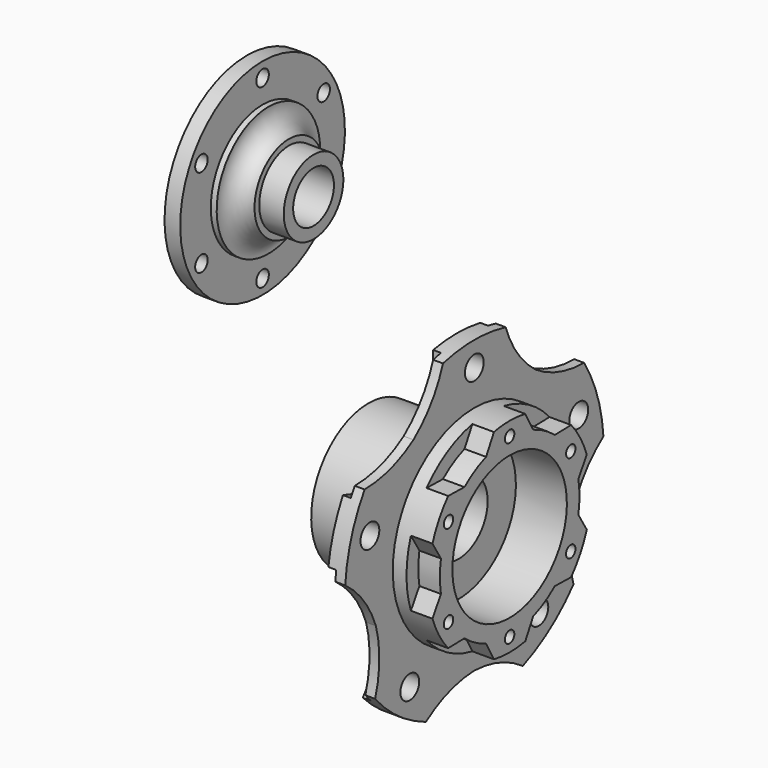
from build123d import *

# Parameters (mm, degrees)
F2_R      = 4
F3_DEPTH  = 8
F4_W      = 1
F4_H      = 18
F4_W_2    = 45
F6_R      = 6
F7_DEPTH  = 9
F9_DEPTH  = 9
F10_R     = 3
F11_DEPTH = 15
F13_DEPTH = 11
F15_DEPTH = 4


with BuildPart() as f1:
    # F0 (on Front) → F1 (revolve)
    with BuildSketch(Plane.XZ):
        with BuildLine():
            Line((0, 13), (0, 19))
            Line((0, 19), (-12.5, 19))
            Line((-12.5, 19), (-12.5, 22))
            ThreePointArc((-12.5, 22), (-20.2852233625, 25.0800140631), (-23, 33))
            Line((-23, 33), (-26, 33))
            Line((-26, 33), (-26, 52.5))
            Line((-26, 52.5), (-34, 52.5))
            Line((-34, 52.5), (-34, 37))
            Line((-34, 37), (-32, 37))
            Line((-32, 37), (-32, 34))
            Line((-32, 34), (-32, 13))
            Line((-32, 13), (0, 13))
        make_face()
        Polygon((-38, 34), (-32, 34), (-32, 37), (-34, 37), (-38, 37), align=None)
    revolve(axis=Axis((-19, 0, 0), (-1, 0, 0)))

    # F2 (on face) → F3 (cut)
    with BuildSketch(Plane(origin=(-34, 0, 0), x_dir=(0, -1, 0), z_dir=(-1, 0, 0))):
        with Locations((0, 45)):
            Circle(F2_R)
        with Locations((-38.9711431703, 22.5)):
            Circle(F2_R)
        with Locations((-38.9711431703, -22.5)):
            Circle(F2_R)
        with Locations((0, -45)):
            Circle(F2_R)
        with Locations((38.9711431703, -22.5)):
            Circle(F2_R)
        with Locations((38.9711431703, 22.5)):
            Circle(F2_R)
    extrude(amount=-F3_DEPTH, mode=Mode.SUBTRACT)


with BuildPart() as f5:
    # F4 (on Front) → F5 (revolve)
    with BuildSketch(Plane.XZ):
        Polygon((100, -83.5), (100, -68), (82, -68), (82, -37.5), (73, -37.5), (73, -83.5), (74, -83.5), align=None)
        with Locations((73.5, -92.5)):
            Rectangle(F4_W, F4_H)
        with Locations((50.5, -92.5)):
            Rectangle(F4_W_2, F4_H)
        with Locations((73.5, -92.5)):
            Rectangle(F4_W, F4_H)
    revolve(axis=Axis((50, 0, -120), (1, 0, 0)))

    # F6 (on face) → F7 (cut)
    with BuildSketch(Plane.YZ.offset(82)):
        with Locations((0, -50)):
            Circle(F6_R)
        with Locations((66.5739561407, -98.3688103938)):
            Circle(F6_R)
        with Locations((41.1449676605, -176.6311896062)):
            Circle(F6_R)
        with Locations((-41.1449676605, -176.6311896062)):
            Circle(F6_R)
        with Locations((-66.5739561407, -98.3688103938)):
            Circle(F6_R)
    extrude(amount=-F7_DEPTH, mode=Mode.SUBTRACT)

    # F8 (on face) → F9 (cut)
    with BuildSketch(Plane.YZ.offset(82)):
        with BuildLine():
            ThreePointArc((-20, -39.9609470321), (-48.4922833141, -53.2560979641), (-69.9413229957, -76.2454420933))
            ThreePointArc((-69.9413229957, -76.2454420933), (-53.6504199543, -73.7422009481), (-38.7938266513, -66.6048783713))
            ThreePointArc((-38.7938266513, -66.6048783713), (-27.4148896965, -54.6809724711), (-20, -39.9609470321))
        make_face()
        with BuildLine():
            ThreePointArc((69.9413229957, -76.2454420933), (48.4922833141, -53.2560979641), (20, -39.9609470321))
            ThreePointArc((20, -39.9609470321), (27.4148896965, -54.6809724711), (38.7938266513, -66.6048783713))
            ThreePointArc((38.7938266513, -66.6048783713), (53.6504199543, -73.7422009481), (69.9413229957, -76.2454420933))
        make_face()
        with BuildLine():
            ThreePointArc((82.3020027707, -114.2877027451), (70.5937535846, -125.8884199269), (62.7697300755, -140.3951216287))
            ThreePointArc((62.7697300755, -140.3951216287), (60.572672739, -156.7301354701), (63.2261148295, -172.9972490189))
            ThreePointArc((63.2261148295, -172.9972490189), (77.5319433312, -148.1965913416), (82.5, -120))
            ThreePointArc((82.5, -120), (82.4504858342, -117.1421361636), (82.3020027707, -114.2877027451))
        make_face()
        with BuildLine():
            ThreePointArc((0, -186), (-16.2144494122, -188.9582711838), (-30.8654350545, -196.5086591106))
            ThreePointArc((-30.8654350545, -196.5086591106), (0, -202.5), (30.8654350545, -196.5086591106))
            ThreePointArc((30.8654350545, -196.5086591106), (16.2144494122, -188.9582711838), (0, -186))
        make_face()
        with BuildLine():
            ThreePointArc((-62.7697300755, -140.3951216287), (-70.5937535846, -125.8884199269), (-82.3020027707, -114.2877027451))
            ThreePointArc((-82.3020027707, -114.2877027451), (-78.4621625944, -145.4939020359), (-63.2261148295, -172.9972490189))
            ThreePointArc((-63.2261148295, -172.9972490189), (-60.572672739, -156.7301354701), (-62.7697300755, -140.3951216287))
        make_face()
    extrude(amount=-F9_DEPTH, mode=Mode.SUBTRACT)

    # F10 (on face) → F11 (cut)
    with BuildSketch(Plane.YZ.offset(100)):
        with Locations((0, -75)):
            Circle(F10_R)
        with Locations((-38.9711431703, -97.5)):
            Circle(F10_R)
        with Locations((-38.9711431703, -142.5)):
            Circle(F10_R)
        with Locations((0, -165)):
            Circle(F10_R)
        with Locations((38.9711431703, -142.5)):
            Circle(F10_R)
        with Locations((38.9711431703, -97.5)):
            Circle(F10_R)
    extrude(amount=-F11_DEPTH, mode=Mode.SUBTRACT)

    # F12 (on face) → F13 (cut)
    with BuildSketch(Plane.YZ.offset(100)):
        with BuildLine():
            ThreePointArc((52, -120), (51.2933889433, -111.4566838574), (49.192759588, -103.1455523935))
            Line((49.192759588, -103.1455523935), (43.7827438323, -112.0425291383))
            ThreePointArc((43.7827438323, -112.0425291383), (44.3203232194, -116.0051345791), (44.5, -120))
            ThreePointArc((44.5, -120), (44.3203232194, -123.9948654209), (43.7827438323, -127.9574708617))
            Line((43.7827438323, -127.9574708617), (49.192759588, -136.8544476065))
            ThreePointArc((49.192759588, -136.8544476065), (51.2933889433, -128.5433161426), (52, -120))
        make_face()
        with BuildLine():
            ThreePointArc((-28.7827438323, -86.0617670247), (-22.25, -81.4618695316), (-15, -78.104296163))
            Line((-15, -78.104296163), (-10, -68.9705967113))
            ThreePointArc((-10, -68.9705967113), (-26, -74.9666790032), (-39.192759588, -85.8250443178))
            Line((-39.192759588, -85.8250443178), (-28.7827438323, -86.0617670247))
        make_face()
        with BuildLine():
            Line((10, -68.9705967113), (15, -78.104296163))
            ThreePointArc((15, -78.104296163), (22.25, -81.4618695316), (28.7827438323, -86.0617670247))
            Line((28.7827438323, -86.0617670247), (39.192759588, -85.8250443178))
            ThreePointArc((39.192759588, -85.8250443178), (26, -74.9666790032), (10, -68.9705967113))
        make_face()
        with BuildLine():
            Line((-43.7827438323, -112.0425291383), (-49.192759588, -103.1455523935))
            ThreePointArc((-49.192759588, -103.1455523935), (-52, -120), (-49.192759588, -136.8544476065))
            Line((-49.192759588, -136.8544476065), (-43.7827438323, -127.9574708617))
            ThreePointArc((-43.7827438323, -127.9574708617), (-44.5, -120), (-43.7827438323, -112.0425291383))
        make_face()
        with BuildLine():
            Line((-28.7827438323, -153.9382329753), (-39.192759588, -154.1749556822))
            ThreePointArc((-39.192759588, -154.1749556822), (-26, -165.0333209968), (-10, -171.0294032887))
            Line((-10, -171.0294032887), (-15, -161.895703837))
            ThreePointArc((-15, -161.895703837), (-22.25, -158.5381304684), (-28.7827438323, -153.9382329753))
        make_face()
        with BuildLine():
            ThreePointArc((10, -171.0294032887), (26, -165.0333209968), (39.192759588, -154.1749556822))
            Line((39.192759588, -154.1749556822), (28.7827438323, -153.9382329753))
            ThreePointArc((28.7827438323, -153.9382329753), (22.25, -158.5381304684), (15, -161.895703837))
            Line((15, -161.895703837), (10, -171.0294032887))
        make_face()
    extrude(amount=-F13_DEPTH, mode=Mode.SUBTRACT)

    # F14 (on face) → F15 (cut)
    with BuildSketch(Plane(origin=(73, 0, 0), x_dir=(0, -1, 0), z_dir=(-1, 0, 0))):
        with BuildLine():
            ThreePointArc((-28.5701039602, -94.9450771363), (-22.3358395871, -89.2573542138), (-15, -85.0858194998))
            Line((-15, -85.0858194998), (-15, -38.8750963021))
            ThreePointArc((-15, -38.8750963021), (-17.5084199159, -39.379250611), (-20, -39.9609470321))
            ThreePointArc((-20, -39.9609470321), (-27.4148896965, -54.6809724711), (-38.7938266513, -66.6048783713))
            ThreePointArc((-38.7938266513, -66.6048783713), (-53.6504199543, -73.7422009481), (-69.9413229957, -76.2454420933))
            ThreePointArc((-69.9413229957, -76.2454420933), (-71.2644897564, -78.4353214885), (-72.5191133801, -80.6651783459))
            Line((-72.5191133801, -80.6651783459), (-28.5701039602, -94.9450771363))
        make_face()
        with BuildLine():
            ThreePointArc((-32.6572953095, -139.4293865849), (-36.1401476192, -131.7426457862), (-37.8406137914, -123.4767726252))
            Line((-37.8406137914, -123.4767726252), (-81.7896232114, -109.1968738347))
            ThreePointArc((-81.7896232114, -109.1968738347), (-82.0852883537, -111.7383151906), (-82.3020027707, -114.2877027451))
            ThreePointArc((-82.3020027707, -114.2877027451), (-70.5937535846, -125.8884199269), (-62.7697300755, -140.3951216287))
            ThreePointArc((-62.7697300755, -140.3951216287), (-60.572672739, -156.7301354701), (-63.2261148295, -172.9972490189))
            ThreePointArc((-63.2261148295, -172.9972490189), (-61.5522967763, -174.9323653374), (-59.8192769029, -176.8146469743))
            Line((-59.8192769029, -176.8146469743), (-32.6572953095, -139.4293865849))
        make_face()
        with BuildLine():
            ThreePointArc((8.3867854783, -157.0629441537), (0, -158), (-8.3867854783, -157.0629441537))
            Line((-8.3867854783, -157.0629441537), (-35.5487670717, -194.4482045431))
            ThreePointArc((-35.5487670717, -194.4482045431), (-33.223078263, -195.5147473725), (-30.8654350545, -196.5086591106))
            ThreePointArc((-30.8654350545, -196.5086591106), (-16.2144494122, -188.9582711838), (0, -186))
            ThreePointArc((0, -186), (16.2144494122, -188.9582711838), (30.8654350545, -196.5086591106))
            ThreePointArc((30.8654350545, -196.5086591106), (33.223078263, -195.5147473725), (35.5487670717, -194.4482045431))
            Line((35.5487670717, -194.4482045431), (8.3867854783, -157.0629441537))
        make_face()
        with BuildLine():
            ThreePointArc((82.3020027707, -114.2877027451), (82.0852883537, -111.7383151906), (81.7896232114, -109.1968738347))
            Line((81.7896232114, -109.1968738347), (37.8406137914, -123.4767726252))
            ThreePointArc((37.8406137914, -123.4767726252), (36.1401476192, -131.7426457862), (32.6572953095, -139.4293865849))
            Line((32.6572953095, -139.4293865849), (59.8192769029, -176.8146469743))
            ThreePointArc((59.8192769029, -176.8146469743), (61.5522967763, -174.9323653374), (63.2261148295, -172.9972490189))
            ThreePointArc((63.2261148295, -172.9972490189), (60.572672739, -156.7301354701), (62.7697300755, -140.3951216287))
            ThreePointArc((62.7697300755, -140.3951216287), (70.5937535846, -125.8884199269), (82.3020027707, -114.2877027451))
        make_face()
        with BuildLine():
            Line((15, -38.8750963021), (15, -85.0858194998))
            ThreePointArc((15, -85.0858194998), (22.3358395871, -89.2573542138), (28.5701039602, -94.9450771363))
            Line((28.5701039602, -94.9450771363), (72.5191133801, -80.6651783459))
            ThreePointArc((72.5191133801, -80.6651783459), (71.2644897564, -78.4353214885), (69.9413229957, -76.2454420933))
            ThreePointArc((69.9413229957, -76.2454420933), (53.6504199543, -73.7422009481), (38.7938266513, -66.6048783713))
            ThreePointArc((38.7938266513, -66.6048783713), (27.4148896965, -54.6809724711), (20, -39.9609470321))
            ThreePointArc((20, -39.9609470321), (17.5084199159, -39.379250611), (15, -38.8750963021))
        make_face()
    extrude(amount=-F15_DEPTH, mode=Mode.SUBTRACT)


solid = Compound([f1.part, f5.part])
